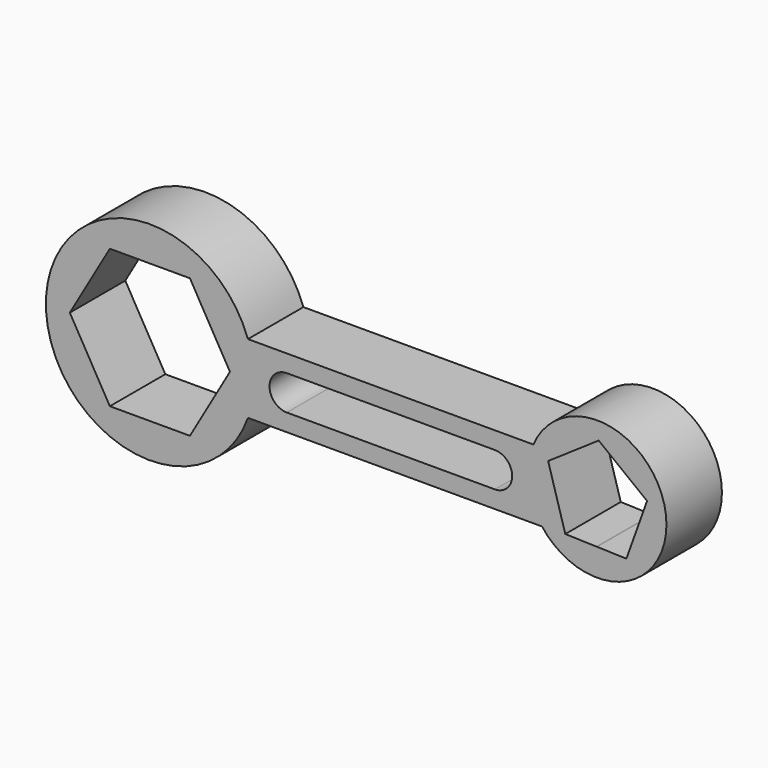
from build123d import *

# Parameters (mm, degrees)
F1_DEPTH = 508


with BuildPart() as f1:
    # F0 (on Front) → F1 (new body)
    with BuildSketch(Plane.XZ):
        with BuildLine():
            ThreePointArc((718.4204896855, -254), (751.026102456, -128.855707789), (762, 0))
            ThreePointArc((762, 0), (751.026102456, 128.855707789), (718.4204896855, 254))
            ThreePointArc((718.4204896855, 254), (-762, 0), (718.4204896855, -254))
        make_face()
        Polygon((-586.5878734967, 0), (-293.2939367483, 508), (293.2939367483, 508), (586.5878734967, 0), (293.2939367483, -508), (-293.2939367483, -508), align=None, mode=Mode.SUBTRACT)
        with BuildLine():
            ThreePointArc((718.4204896855, 254), (751.026102456, 128.855707789), (762, 0))
            ThreePointArc((762, 0), (751.026102456, -128.855707789), (718.4204896855, -254))
            Line((718.4204896855, -254), (2872.9055947803, -254))
            ThreePointArc((2872.9055947803, -254), (2772.5153973152, -8.5755942668), (2809.4665538877, 254))
            Line((2809.4665538877, 254), (718.4204896855, 254))
        make_face()
        with BuildLine():
            ThreePointArc((2527.3, 127), (2654.3, 0), (2527.3, -127))
            Line((2527.3, -127), (1003.3, -127))
            ThreePointArc((1003.3, -127), (876.3, 0), (1003.3, 127))
            Line((1003.3, 127), (2527.3, 127))
        make_face(mode=Mode.SUBTRACT)
        with BuildLine():
            ThreePointArc((3784.6, 54.3744918022), (3378.4827987811, 552.0529977803), (2809.4665538877, 254))
            ThreePointArc((2809.4665538877, 254), (2772.5153973152, -8.5755942668), (2872.9055947803, -254))
            ThreePointArc((2872.9055947803, -254), (3439.3686120669, -426.8431085885), (3784.6, 54.3744918022))
        make_face()
        Polygon((3276.6, -254), (3271.9697222052, -254), (3043.395350642, -247.1343121381), (2953.9718593657, 59.0763618114), (2917.7838874734, 182.9939488332), (3288.0440961054, 435.3744918022), (3642.4889528903, 161.2259844849), (3491.2877128889, -260.5876539712), align=None, mode=Mode.SUBTRACT)
    extrude(amount=F1_DEPTH)


solid = f1.part
